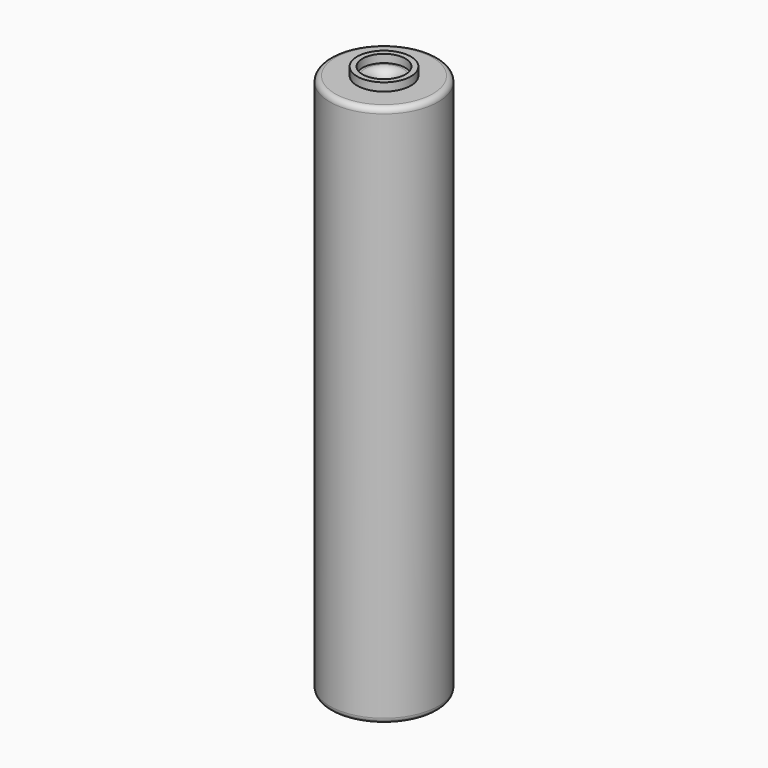
from build123d import *


with BuildPart() as part:
    # Sketch → Revolution (revolve)
    with BuildSketch(Plane.YZ):
        with BuildLine():
            Line((-1.5, 5), (-1.5, 2))
            ThreePointArc((-3.5, 0), (-2.085786, 0.585786), (-1.5, 2))
            Line((-3.5, 0), (-9, 0))
            ThreePointArc((-10, 1), (-9.707107, 0.292893), (-9, 0))
            Line((-10, 1), (-10, 99))
            ThreePointArc((-9, 100), (-9.707107, 99.707107), (-10, 99))
            Line((-9, 100), (-4.95, 100))
            Line((-4.95, 100), (-4.95, 101.5))
            Line((-4.95, 101.5), (-3.95, 101.5))
            Line((-3.95, 101.5), (-3.95, 100))
            Line((-3.95, 100), (-3.499999, 100))
            ThreePointArc((-1.5, 98), (-2.085786, 99.414213), (-3.499999, 100))
            Line((-1.5, 98), (-1.5, 95))
            Line((-1.5, 95), (-8.25, 80.524578))
            Line((-8.25, 80.524578), (-8.25, 19.475422))
            Line((-1.5, 5), (-8.25, 19.475422))
        make_face()
    revolve(axis=Axis((0, 0, 0), (0, 0, 1)))


solid = part.part
